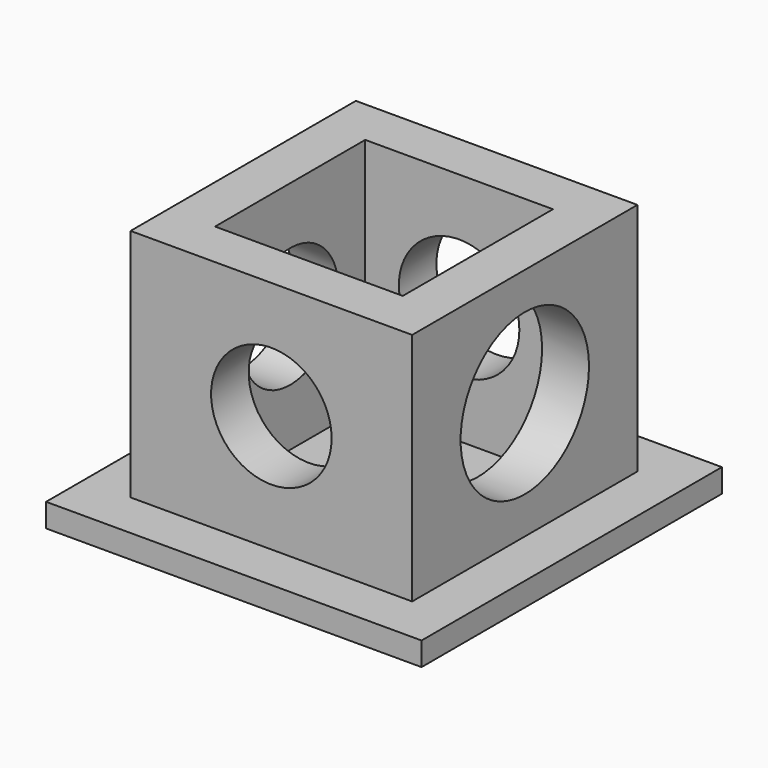
from build123d import *

# Parameters (mm, degrees)
F0_W      = 60
F0_H      = 60
F2_DEPTH  = 50
F1_W      = 40
F1_H      = 40
F3_DEPTH  = 50
F4_R      = 12.84
F5_DEPTH  = 60
F6_R      = 12.84
F7_DEPTH  = 10
F8_R      = 17.1
F9_DEPTH  = 25
F10_W     = 80
F10_H     = 80
F11_DEPTH = 5


with BuildPart() as f2:
    # F0 (on Top) → F2 (new body)
    with BuildSketch(Plane.XY):
        Rectangle(F0_W, F0_H)
    extrude(amount=F2_DEPTH)

    # F1 (on Top) → F3 (cut)
    with BuildSketch(Plane.XY):
        Rectangle(F1_W, F1_H)
    extrude(amount=F3_DEPTH, mode=Mode.SUBTRACT)

    # F4 (on face) → F5 (cut)
    with BuildSketch(Plane.XZ.offset(30)):
        with Locations((0, 25)):
            Circle(F4_R)
    extrude(amount=-F5_DEPTH, mode=Mode.SUBTRACT)

    # F6 (on face) → F7 (cut)
    with BuildSketch(Plane(origin=(-30, 0, 0), x_dir=(0, -1, 0), z_dir=(-1, 0, 0))):
        with Locations((0, 25)):
            Circle(F6_R)
    extrude(amount=-F7_DEPTH, mode=Mode.SUBTRACT)

    # F8 (on face) → F9 (cut)
    with BuildSketch(Plane.YZ.offset(30)):
        with Locations((0, 25)):
            Circle(F8_R)
    extrude(amount=-F9_DEPTH, mode=Mode.SUBTRACT)

    # F10 (on Top) → F11 (join)
    with BuildSketch(Plane.XY):
        Rectangle(F10_W, F10_H)
    extrude(amount=-F11_DEPTH)


solid = f2.part
